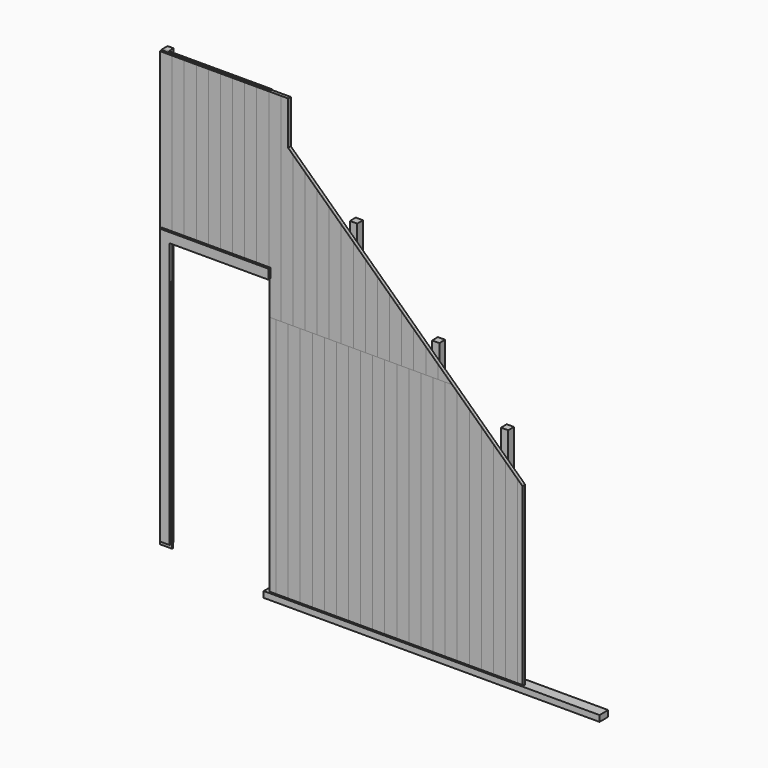
from build123d import *

# Parameters (mm, degrees)
F0_W      = 2780
F0_H      = 90
F1_DEPTH  = 50
F2_W      = 50
F2_H      = 50
F3_DEPTH  = 3600
F2_W_2    = 60
F2_H_2    = 60
F4_DEPTH  = 2910
F5_DEPTH  = 2260
F6_DEPTH  = 1810
F9_W      = 595
F9_H      = 18
F10_DEPTH = 2440
F20_W     = 3417.2103404999
F20_H     = 4000
F20_H_2   = 2848.1123447418
F21_DEPTH = 100
F24_W     = 425.2220988274
F24_H     = 951.1547088623
F25_DEPTH = 25
F29_DEPTH = 1350
F30_W     = 310
F30_H     = 18
F31_DEPTH = 1350
F33_W     = 50
F33_H     = 18
F34_DEPTH = 2250
F36_W     = 80
F36_H     = 2200
F37_DEPTH = 20
F40_W     = 855
F40_H     = 60
F41_DEPTH = 60
F44_W     = 585
F44_H     = 50
F45_DEPTH = 50
F48_W     = 620
F48_H     = 50
F49_DEPTH = 50
F52_W     = 510
F52_H     = 50
F53_DEPTH = 50
F55_W     = 100
F55_H     = 10
F56_DEPTH = 2000
F89_W     = 740
F89_H     = 261.3468421765
F90_DEPTH = 285
F93_W     = 69.69
F93_H     = 34.3188558442
F94_DEPTH = 2285
F98_W     = 128.113090992
F98_H     = 21.3689655066
F99_DEPTH = 50


with BuildPart() as f1:
    # F0 (on Top) → F1 (new body)
    with BuildSketch(Plane.XY):
        with Locations((1390, 45)):
            Rectangle(F0_W, F0_H)
    extrude(amount=F1_DEPTH)


with BuildPart() as f3:
    # F2 (on Top) → F3 (new body)
    with BuildSketch(Plane.XY):
        with Locations((-835, 25)):
            Rectangle(F2_W, F2_H)
    extrude(amount=F3_DEPTH)


with BuildPart() as f3b:
    # F2 (on Top) → F3, piece 2 (new body)
    with BuildSketch(Plane.XY):
        with Locations((40, 30)):
            Rectangle(F2_W_2, F2_H_2)
    extrude(amount=F3_DEPTH)


with BuildPart() as f4:
    # F2 (on Top) → F4 (new body)
    with BuildSketch(Plane.XY):
        with Locations((720, 30)):
            Rectangle(F2_W_2, F2_H_2)
    extrude(amount=F4_DEPTH)


with BuildPart() as f5:
    # F2 (on Top) → F5 (new body)
    with BuildSketch(Plane.XY):
        with Locations((1400, 30)):
            Rectangle(F2_W_2, F2_H_2)
    extrude(amount=F5_DEPTH)


with BuildPart() as f6:
    # F2 (on Top) → F6 (new body)
    with BuildSketch(Plane.XY):
        with Locations((1970, 30)):
            Rectangle(F2_W_2, F2_H_2)
    extrude(amount=F6_DEPTH)


with BuildPart() as f3b_1:
    # F7: moved
    add(f3b.part.moved(Location((0, 30, 50))))


with BuildPart() as f4_1:
    # F7: moved
    add(f4.part.moved(Location((0, 30, 50))))


with BuildPart() as f3_1:
    # F7: moved
    add(f3.part.moved(Location((0, 30, 50))))


with BuildPart() as f5_1:
    # F7: moved
    add(f5.part.moved(Location((0, 30, 50))))


with BuildPart() as f6_1:
    # F7: moved
    add(f6.part.moved(Location((0, 30, 50))))


with BuildPart() as f3b_2:
    # F8: moved
    add(f3b_1.part.moved(Location((35, 0, 0))))


with BuildPart() as f10:
    # F9 (on Top) → F10 (new body)
    with BuildSketch(Plane.XY):
        with Locations((297.5, -9)):
            Rectangle(F9_W, F9_H)
    extrude(amount=F10_DEPTH)


with BuildPart() as f10_1:
    # F11: moved
    add(f10.part.moved(Location((45, 30, -10))))


with BuildPart() as f12_1:
    # F12: copy of F10
    add(f10_1.part.moved(Location((595, 0, 0))))


with BuildPart() as f13_1:
    # F13: copy of F12_1
    add(f12_1.part.moved(Location((595, 0, 0))))


with BuildPart() as f14_1:
    # F14: copy of F13_1
    add(f13_1.part.moved(Location((595, 0, 0))))


with BuildPart() as f15_1:
    # F15: copy of F13_1
    add(f13_1.part.moved(Location((0, 0, 2440))))


with BuildPart() as f16_1:
    # F16: copy of F12_1
    add(f12_1.part.moved(Location((0, 0, 2440))))


with BuildPart() as f17_1:
    # F17: copy of F10
    add(f10_1.part.moved(Location((0, 0, 2440))))


with BuildPart() as f18_1:
    # F18: copy of F17_1
    add(f17_1.part.moved(Location((-595, 0, 0))))


with BuildPart() as f19_1:
    # F19: copy of F18_1
    add(f18_1.part.moved(Location((-595, 0, 0))))


with BuildPart() as f21:
    # F20 (on Front) → F21 (new body, symmetric)
    with BuildSketch(Plane.XZ):
        Polygon((-1939.9543714925, 1834.5236538478), (0, 0), (0, 4000), (-1939.9543714925, 5834.5236538478), (-1939.9543714925, 2194.5238113403), align=None)
        with Locations((1708.6051702499, 2000)):
            Rectangle(F20_W, F20_H)
        with Locations((1708.6051702499, -1424.0561723709)):
            Rectangle(F20_W, F20_H_2)
        Polygon((-6116.1675453186, 2194.5238113403), (-1939.9543714925, 2194.5238113403), (-1939.9543714925, 5834.5236538478), (-1939.9543714925, 5834.5238113403), (-6116.1675453186, 5834.5238113403), align=None)
    extrude(amount=F21_DEPTH, both=True)


with BuildPart() as f21_1:
    # F22: moved
    add(f21.part.moved(Location((2140, 0, 1450))))


with BuildPart() as f25:
    # F24 (on Front) → F25 (new body, symmetric)
    with BuildSketch(Plane.XZ):
        with Locations((-1097.2531139851, 2841.3834571838)):
            Rectangle(F24_W, F24_H)
    extrude(amount=F25_DEPTH, both=True)


with BuildPart() as f25_1:
    # F26: moved
    add(f25.part.moved(Location((24.64, 0, 0))))


with BuildPart() as f19_1_1:
    add(f19_1.part)

    # F27: cut F25
    add(f25_1.part, mode=Mode.SUBTRACT)


with BuildPart() as f29:
    # F9 (on Top) → F29 (new body)
    with BuildSketch(Plane.XY):
        with Locations((297.5, -9)):
            Rectangle(F9_W, F9_H)
    extrude(amount=F29_DEPTH)


with BuildPart() as f31:
    # F30 (on Top) → F31 (new body)
    with BuildSketch(Plane.XY):
        with Locations((-155, -9)):
            Rectangle(F30_W, F30_H)
    extrude(amount=F31_DEPTH)


with BuildPart() as f29_1:
    # F32: moved
    add(f29.part.moved(Location((-550, 30, 2300))))


with BuildPart() as f31_1:
    # F32: moved
    add(f31.part.moved(Location((-550, 30, 2300))))


with BuildPart() as f34:
    # F33 (on Top) → F34 (new body)
    with BuildSketch(Plane.XY):
        with Locations((-25, -9)):
            Rectangle(F33_W, F33_H)
    extrude(amount=F34_DEPTH)


with BuildPart() as f34_1:
    # F35: moved
    add(f34.part.moved(Location((-810, 30, 50))))


with BuildPart() as f37:
    # F36 (on Front) → F37 (new body)
    with BuildSketch(Plane.XZ):
        with Locations((-40, 1100)):
            Rectangle(F36_W, F36_H)
        Polygon((-80, 2200), (0, 2200), (820, 2200), (820, 2280), (-80, 2280), align=None)
    extrude(amount=F37_DEPTH)


with BuildPart() as f37_1:
    # F38: moved
    add(f37.part.moved(Location((-764.69, 0, 85))))


with BuildPart() as f1_1:
    # F39: moved
    add(f1.part.moved(Location((0, 0, -60))))


with BuildPart() as f4_2:
    # F39: moved
    add(f4_1.part.moved(Location((0, 0, -60))))


with BuildPart() as f5_2:
    # F39: moved
    add(f5_1.part.moved(Location((0, 0, -60))))


with BuildPart() as f6_2:
    # F39: moved
    add(f6_1.part.moved(Location((0, 0, -60))))


with BuildPart() as f3b_3:
    # F39: moved
    add(f3b_2.part.moved(Location((0, 0, -60))))


with BuildPart() as f41:
    # F40 (on Top) → F41 (new body)
    with BuildSketch(Plane.XY):
        with Locations((-427.5, 30)):
            Rectangle(F40_W, F40_H)
    extrude(amount=F41_DEPTH)


with BuildPart() as f41_1:
    # F42: moved
    add(f41.part.moved(Location((45, 30, 2320))))


with BuildPart() as f43_1:
    # F43: copy of F41
    add(f41_1.part.moved(Location((0, 0, 1100))))


with BuildPart() as f45:
    # F44 (on Top) → F45 (new body)
    with BuildSketch(Plane.XY):
        with Locations((292.5, 25)):
            Rectangle(F44_W, F44_H)
    extrude(amount=F45_DEPTH)


with BuildPart() as f45_1:
    # F46: moved
    add(f45.part.moved(Location((105, 30, 1000))))


with BuildPart() as f47_1:
    # F47: copy of F45
    add(f45_1.part.moved(Location((0, 0, 1000))))


with BuildPart() as f49:
    # F48 (on Top) → F49 (new body)
    with BuildSketch(Plane.XY):
        with Locations((310, 25)):
            Rectangle(F48_W, F48_H)
    extrude(amount=F49_DEPTH)


with BuildPart() as f49_1:
    # F50: moved
    add(f49.part.moved(Location((750, 30, 1000))))


with BuildPart() as f51_1:
    # F51: copy of F49
    add(f49_1.part.moved(Location((0, 0, 1000))))


with BuildPart() as f53:
    # F52 (on Top) → F53 (new body)
    with BuildSketch(Plane.XY):
        with Locations((255, 25)):
            Rectangle(F52_W, F52_H)
    extrude(amount=F53_DEPTH)


with BuildPart() as f53_1:
    # F54: moved
    add(f53.part.moved(Location((1430, 30, 1000))))


with BuildPart() as f56:
    # F55 (on Top) → F56 (new body)
    with BuildSketch(Plane.XY):
        with Locations((50, 5)):
            Rectangle(F55_W, F55_H)
    extrude(amount=F56_DEPTH)


with BuildPart() as f56_1:
    # F57: moved
    add(f56.part.moved(Location((0, 2, 0))))


with BuildPart() as f58_1:
    # F58: copy of F56
    add(f56_1.part.moved(Location((100, 0, 0))))


with BuildPart() as f59_1:
    # F59: copy of F58_1
    add(f58_1.part.moved(Location((100, 0, 0))))


with BuildPart() as f60_1:
    # F60: copy of F59_1
    add(f59_1.part.moved(Location((100, 0, 0))))


with BuildPart() as f61_1:
    # F61: copy of F60_1
    add(f60_1.part.moved(Location((100, 0, 0))))


with BuildPart() as f62_1:
    # F62: copy of F61_1
    add(f61_1.part.moved(Location((100, 0, 0))))


with BuildPart() as f63_1:
    # F63: copy of F62_1
    add(f62_1.part.moved(Location((100, 0, 0))))


with BuildPart() as f64_1:
    # F64: copy of F63_1
    add(f63_1.part.moved(Location((100, 0, 0))))


with BuildPart() as f65_1:
    # F65: copy of F64_1
    add(f64_1.part.moved(Location((100, 0, 0))))


with BuildPart() as f66_1:
    # F66: copy of F65_1
    add(f65_1.part.moved(Location((100, 0, 0))))


with BuildPart() as f67_1:
    # F67: copy of F66_1
    add(f66_1.part.moved(Location((100, 0, 0))))


with BuildPart() as f68_1:
    # F68: copy of F67_1
    add(f67_1.part.moved(Location((100, 0, 0))))


with BuildPart() as f69_1:
    # F69: copy of F68_1
    add(f68_1.part.moved(Location((100, 0, 0))))


with BuildPart() as f70_1:
    # F70: copy of F69_1
    add(f69_1.part.moved(Location((100, 0, 0))))


with BuildPart() as f71_1:
    # F71: copy of F70_1
    add(f70_1.part.moved(Location((100, 0, 0))))


with BuildPart() as f72_1:
    # F72: copy of F71_1
    add(f71_1.part.moved(Location((100, 0, 0))))


with BuildPart() as f73_1:
    # F73: copy of F72_1
    add(f72_1.part.moved(Location((100, 0, 0))))


with BuildPart() as f74_1:
    # F74: copy of F73_1
    add(f73_1.part.moved(Location((100, 0, 0))))


with BuildPart() as f75_1:
    # F75: copy of F74_1
    add(f74_1.part.moved(Location((100, 0, 0))))


with BuildPart() as f76_1:
    # F76: copy of F75_1
    add(f75_1.part.moved(Location((100, 0, 0))))


with BuildPart() as f77_1:
    # F77: copy of F76_1
    add(f76_1.part.moved(Location((100, 0, 0))))


with BuildPart() as f78_1:
    # F78: copy of F77_1
    add(f77_1.part.moved(Location((100, 0, 0))))

    # F88: cut F21
    add(f21_1.part, mode=Mode.SUBTRACT)


with BuildPart() as f79_1:
    # F79: copy of F56
    add(f56_1.part.moved(Location((-860, 0, 2000))))


with BuildPart() as f80_1:
    # F80: copy of F79_1
    add(f79_1.part.moved(Location((100, 0, 0))))


with BuildPart() as f81_1:
    # F81: copy of F80_1
    add(f80_1.part.moved(Location((100, 0, 0))))


with BuildPart() as f82_1:
    # F82: copy of F81_1
    add(f81_1.part.moved(Location((100, 0, 0))))


with BuildPart() as f83_1:
    # F83: copy of F82_1
    add(f82_1.part.moved(Location((100, 0, 0))))


with BuildPart() as f84_1:
    # F84: copy of F83_1
    add(f83_1.part.moved(Location((100, 0, 0))))


with BuildPart() as f85_1:
    # F85: copy of F84_1
    add(f84_1.part.moved(Location((100, 0, 0))))


with BuildPart() as f86_1:
    # F86: copy of F85_1
    add(f85_1.part.moved(Location((700, 0, 0))))


with BuildPart() as f86_2:
    # F86: copy of F84_1
    add(f84_1.part.moved(Location((700, 0, 0))))


with BuildPart() as f86_3:
    # F86: copy of F83_1
    add(f83_1.part.moved(Location((700, 0, 0))))


with BuildPart() as f86_4:
    # F86: copy of F82_1
    add(f82_1.part.moved(Location((700, 0, 0))))


with BuildPart() as f86_5:
    # F86: copy of F81_1
    add(f81_1.part.moved(Location((700, 0, 0))))


with BuildPart() as f86_6:
    # F86: copy of F80_1
    add(f80_1.part.moved(Location((700, 0, 0))))


with BuildPart() as f86_7:
    # F86: copy of F79_1
    add(f79_1.part.moved(Location((700, 0, 0))))


with BuildPart() as f87_1:
    # F87: copy of F86_1
    add(f86_1.part.moved(Location((1100, 0, 0))))

    # F88: cut F21
    add(f21_1.part, mode=Mode.SUBTRACT)


with BuildPart() as f87_2:
    # F87: copy of F86_2
    add(f86_2.part.moved(Location((1100, 0, 0))))

    # F88: cut F21
    add(f21_1.part, mode=Mode.SUBTRACT)


with BuildPart() as f87_3:
    # F87: copy of F86_3
    add(f86_3.part.moved(Location((1100, 0, 0))))

    # F88: cut F21
    add(f21_1.part, mode=Mode.SUBTRACT)


with BuildPart() as f87_4:
    # F87: copy of F86_4
    add(f86_4.part.moved(Location((1100, 0, 0))))

    # F88: cut F21
    add(f21_1.part, mode=Mode.SUBTRACT)


with BuildPart() as f87_5:
    # F87: copy of F86_5
    add(f86_5.part.moved(Location((1100, 0, 0))))

    # F88: cut F21
    add(f21_1.part, mode=Mode.SUBTRACT)


with BuildPart() as f87_6:
    # F87: copy of F86_6
    add(f86_6.part.moved(Location((1100, 0, 0))))

    # F88: cut F21
    add(f21_1.part, mode=Mode.SUBTRACT)


with BuildPart() as f87_7:
    # F87: copy of F86_7
    add(f86_7.part.moved(Location((1100, 0, 0))))

    # F88: cut F21
    add(f21_1.part, mode=Mode.SUBTRACT)


with BuildPart() as f87_8:
    # F87: copy of F85_1
    add(f85_1.part.moved(Location((1100, 0, 0))))

    # F88: cut F21
    add(f21_1.part, mode=Mode.SUBTRACT)


with BuildPart() as f87_9:
    # F87: copy of F84_1
    add(f84_1.part.moved(Location((1100, 0, 0))))

    # F88: cut F21
    add(f21_1.part, mode=Mode.SUBTRACT)


with BuildPart() as f87_10:
    # F87: copy of F83_1
    add(f83_1.part.moved(Location((1100, 0, 0))))

    # F88: cut F21
    add(f21_1.part, mode=Mode.SUBTRACT)


with BuildPart() as f87_11:
    # F87: copy of F82_1
    add(f82_1.part.moved(Location((1100, 0, 0))))

    # F88: cut F21
    add(f21_1.part, mode=Mode.SUBTRACT)


with BuildPart() as f12_1_1:
    add(f12_1.part)

    # F88: cut F21
    add(f21_1.part, mode=Mode.SUBTRACT)


with BuildPart() as f13_1_1:
    add(f13_1.part)

    # F88: cut F21
    add(f21_1.part, mode=Mode.SUBTRACT)


with BuildPart() as f14_1_1:
    add(f14_1.part)

    # F88: cut F21
    add(f21_1.part, mode=Mode.SUBTRACT)


with BuildPart() as f16_1_1:
    add(f16_1.part)

    # F88: cut F21
    add(f21_1.part, mode=Mode.SUBTRACT)


with BuildPart() as f17_1_1:
    add(f17_1.part)

    # F88: cut F21
    add(f21_1.part, mode=Mode.SUBTRACT)


with BuildPart() as f79_1_1:
    add(f79_1.part)

    # F88: cut F21
    add(f21_1.part, mode=Mode.SUBTRACT)


with BuildPart() as f80_1_1:
    add(f80_1.part)

    # F88: cut F21
    add(f21_1.part, mode=Mode.SUBTRACT)


with BuildPart() as f81_1_1:
    add(f81_1.part)

    # F88: cut F21
    add(f21_1.part, mode=Mode.SUBTRACT)


with BuildPart() as f82_1_1:
    add(f82_1.part)

    # F88: cut F21
    add(f21_1.part, mode=Mode.SUBTRACT)


with BuildPart() as f83_1_1:
    add(f83_1.part)

    # F88: cut F21
    add(f21_1.part, mode=Mode.SUBTRACT)


with BuildPart() as f84_1_1:
    add(f84_1.part)

    # F88: cut F21
    add(f21_1.part, mode=Mode.SUBTRACT)


with BuildPart() as f85_1_1:
    add(f85_1.part)

    # F88: cut F21
    add(f21_1.part, mode=Mode.SUBTRACT)


with BuildPart() as f86_7_1:
    add(f86_7.part)

    # F88: cut F21
    add(f21_1.part, mode=Mode.SUBTRACT)


with BuildPart() as f86_6_1:
    add(f86_6.part)

    # F88: cut F21
    add(f21_1.part, mode=Mode.SUBTRACT)


with BuildPart() as f86_5_1:
    add(f86_5.part)

    # F88: cut F21
    add(f21_1.part, mode=Mode.SUBTRACT)


with BuildPart() as f86_4_1:
    add(f86_4.part)

    # F88: cut F21
    add(f21_1.part, mode=Mode.SUBTRACT)


with BuildPart() as f86_3_1:
    add(f86_3.part)

    # F88: cut F21
    add(f21_1.part, mode=Mode.SUBTRACT)


with BuildPart() as f86_2_1:
    add(f86_2.part)

    # F88: cut F21
    add(f21_1.part, mode=Mode.SUBTRACT)


with BuildPart() as f86_1_1:
    add(f86_1.part)

    # F88: cut F21
    add(f21_1.part, mode=Mode.SUBTRACT)


with BuildPart() as f72_1_1:
    add(f72_1.part)

    # F88: cut F21
    add(f21_1.part, mode=Mode.SUBTRACT)


with BuildPart() as f73_1_1:
    add(f73_1.part)

    # F88: cut F21
    add(f21_1.part, mode=Mode.SUBTRACT)


with BuildPart() as f74_1_1:
    add(f74_1.part)

    # F88: cut F21
    add(f21_1.part, mode=Mode.SUBTRACT)


with BuildPart() as f75_1_1:
    add(f75_1.part)

    # F88: cut F21
    add(f21_1.part, mode=Mode.SUBTRACT)


with BuildPart() as f76_1_1:
    add(f76_1.part)

    # F88: cut F21
    add(f21_1.part, mode=Mode.SUBTRACT)


with BuildPart() as f77_1_1:
    add(f77_1.part)

    # F88: cut F21
    add(f21_1.part, mode=Mode.SUBTRACT)


with BuildPart() as f90:
    # F89 (on Top) → F90 (new body)
    with BuildSketch(Plane.XY):
        with Locations((370, -130.6734210883)):
            Rectangle(F89_W, F89_H)
    extrude(amount=F90_DEPTH)


with BuildPart() as f90_1:
    # F91: moved
    add(f90.part.moved(Location((-764.69, 100, 2000))))


with BuildPart() as f79_1_2:
    add(f79_1_1.part)

    # F92: cut F90
    add(f90_1.part, mode=Mode.SUBTRACT)


with BuildPart() as f80_1_2:
    add(f80_1_1.part)

    # F92: cut F90
    add(f90_1.part, mode=Mode.SUBTRACT)


with BuildPart() as f81_1_2:
    add(f81_1_1.part)

    # F92: cut F90
    add(f90_1.part, mode=Mode.SUBTRACT)


with BuildPart() as f82_1_2:
    add(f82_1_1.part)

    # F92: cut F90
    add(f90_1.part, mode=Mode.SUBTRACT)


with BuildPart() as f83_1_2:
    add(f83_1_1.part)

    # F92: cut F90
    add(f90_1.part, mode=Mode.SUBTRACT)


with BuildPart() as f84_1_2:
    add(f84_1_1.part)

    # F92: cut F90
    add(f90_1.part, mode=Mode.SUBTRACT)


with BuildPart() as f85_1_2:
    add(f85_1_1.part)

    # F92: cut F90
    add(f90_1.part, mode=Mode.SUBTRACT)


with BuildPart() as f86_7_2:
    add(f86_7_1.part)

    # F92: cut F90
    add(f90_1.part, mode=Mode.SUBTRACT)


with BuildPart() as f86_6_2:
    add(f86_6_1.part)

    # F92: cut F90
    add(f90_1.part, mode=Mode.SUBTRACT)


with BuildPart() as f94:
    # F93 (on Top) → F94 (new body)
    with BuildSketch(Plane.XY):
        with Locations((34.845, 17.1594279221)):
            Rectangle(F93_W, F93_H)
    extrude(amount=F94_DEPTH)


with BuildPart() as f94_1:
    # F95: moved
    add(f94.part.moved(Location((-24.69, 0, 0))))


with BuildPart() as f86_6_3:
    add(f86_6_2.part)

    # F96: cut F94
    add(f94_1.part, mode=Mode.SUBTRACT)


with BuildPart() as f56_2:
    add(f56_1.part)

    # F96: cut F94
    add(f94_1.part, mode=Mode.SUBTRACT)


with BuildPart() as f86_5_2:
    add(f86_5_1.part)

    # F96: cut F94
    add(f94_1.part, mode=Mode.SUBTRACT)


with BuildPart() as f97_1:
    # F97: copy of F58_1
    add(f58_1.part.moved(Location((-960, 0, 0))))


with BuildPart() as f99:
    # F98 (on Top) → F99 (new body)
    with BuildSketch(Plane.XY):
        with Locations((64.056545496, 10.6844827533)):
            Rectangle(F98_W, F98_H)
    extrude(amount=F99_DEPTH)


with BuildPart() as f99_1:
    # F100: moved
    add(f99.part.moved(Location((-860, 0, 0))))


with BuildPart() as f97_1_1:
    add(f97_1.part)

    # F101: cut F99
    add(f99_1.part, mode=Mode.SUBTRACT)


solid = Compound([f3_1.part, f10_1.part, f29_1.part, f31_1.part, f34_1.part, f37_1.part, f1_1.part, f4_2.part, f5_2.part, f6_2.part, f3b_3.part, f41_1.part, f43_1.part, f45_1.part, f47_1.part, f49_1.part, f51_1.part, f53_1.part, f58_1.part, f59_1.part, f60_1.part, f61_1.part, f62_1.part, f63_1.part, f64_1.part, f65_1.part, f66_1.part, f67_1.part, f68_1.part, f69_1.part, f70_1.part, f71_1.part, f78_1.part, f87_1.part, f87_2.part, f87_3.part, f87_4.part, f87_5.part, f87_6.part, f87_7.part, f87_8.part, f87_9.part, f87_10.part, f87_11.part, f12_1_1.part, f13_1_1.part, f14_1_1.part, f16_1_1.part, f17_1_1.part, f86_4_1.part, f86_3_1.part, f86_2_1.part, f86_1_1.part, f72_1_1.part, f73_1_1.part, f74_1_1.part, f75_1_1.part, f76_1_1.part, f77_1_1.part, f79_1_2.part, f80_1_2.part, f81_1_2.part, f82_1_2.part, f83_1_2.part, f84_1_2.part, f85_1_2.part, f86_7_2.part, f86_6_3.part, f56_2.part, f86_5_2.part, f97_1_1.part])
